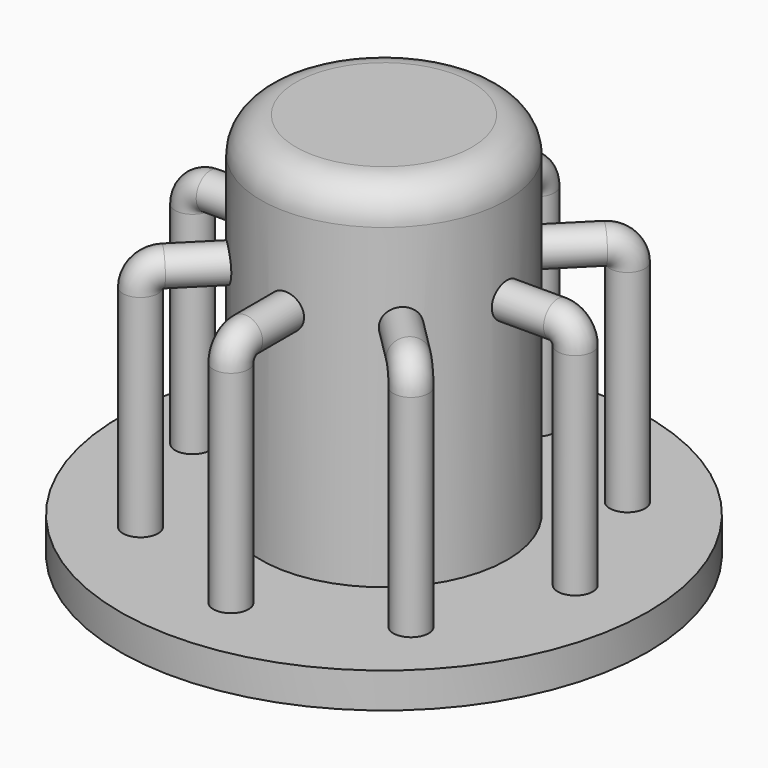
from build123d import *

# Parameters (mm, degrees)
SKETCH_R           = 75
PAD_DEPTH          = 10
SKETCH001_R        = 35
PAD001_DEPTH       = 100
FILLET_R           = 10
SKETCH003_R        = 5
POLARPATTERN_COUNT = 8


with BuildPart() as part:
    # Sketch → Pad (new body)
    with BuildSketch(Plane.XY):
        Circle(SKETCH_R)
    extrude(amount=PAD_DEPTH)

    # Sketch001 (on Face3 of Pad) → Pad001 (join)
    with BuildSketch(Plane.XY.offset(10)):
        Circle(SKETCH001_R)
    extrude(amount=PAD001_DEPTH)

    # Fillet
    fillet_edges = [part.edges().sort_by_distance(p)[0] for p in [
        (-35, 0, 110),
    ]]
    fillet(fillet_edges, radius=FILLET_R)

    # AdditivePipe: sweep along a path in Sketch002
    with BuildLine(Plane.XZ) as additivepipe_path:
        Line((24.350378, 75), (49.350378, 75))
        ThreePointArc((49.350378, 75), (52.885912, 73.535534), (54.350378, 70))
        Line((54.350378, 70), (54.350378, 10))
    # Sketch003 (on Face3 of Fillet) → AdditivePipe (sweep)
    with BuildSketch(Plane.XY.offset(10)):
        with Locations((54.350378, 0)):
            Circle(SKETCH003_R)
    sweep(path=additivepipe_path.line)

    # PolarPattern: part ×8 about axis
    polarpattern_axis = Axis((0, 0, 0), (0, 0, 1))


with BuildPart() as part_1:
    add(part.part)
    for i in range(1, POLARPATTERN_COUNT):
        add(part.part.rotate(polarpattern_axis, i * 360 / POLARPATTERN_COUNT))


solid = part_1.part
